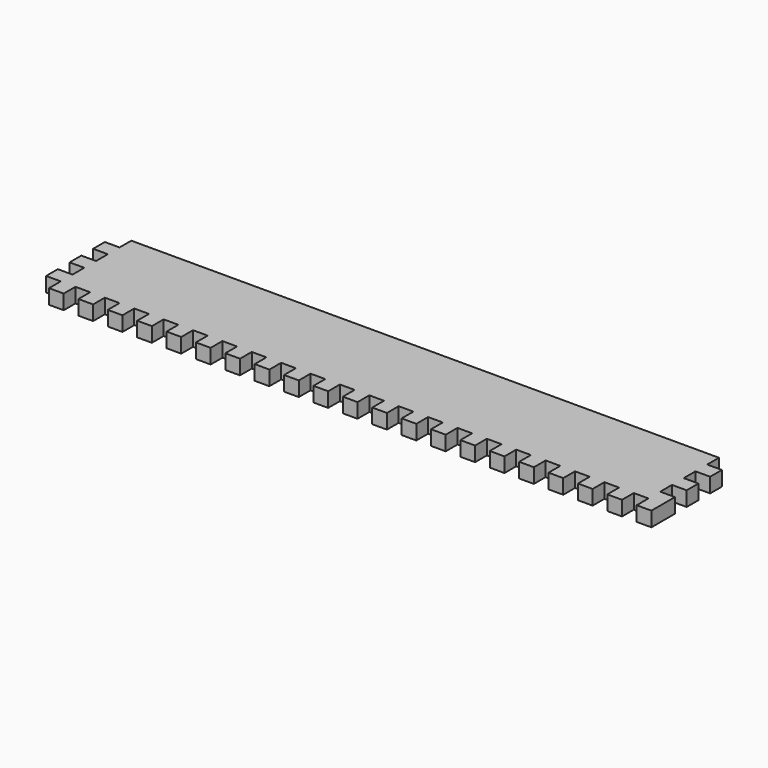
from build123d import *

# Parameters (mm, degrees)
F0_W     = 533.4
F0_H     = 88.9
F1_DEPTH = 12.7
F2_W     = 12.7
F2_H     = 12.7
F3_DEPTH = 25.4
F4_W     = 12.7
F4_H     = 12.7
F5_DEPTH = 25.4
F6_W     = 12.7
F6_H     = 12.7
F7_DEPTH = 25.4


with BuildPart() as f1:
    # F0 (on Top) → F1 (new body)
    with BuildSketch(Plane.XY):
        with Locations((266.7, 44.45)):
            Rectangle(F0_W, F0_H)
    extrude(amount=F1_DEPTH)

    # F2 (on face) → F3 (cut)
    with BuildSketch(Plane.XY.offset(12.7)):
        with Locations((6.35, 6.35)):
            Rectangle(F2_W, F2_H)
        with Locations((6.35, 31.75)):
            Rectangle(F2_W, F2_H)
        with Locations((6.35, 82.55)):
            Rectangle(F2_W, F2_H)
        with Locations((6.35, 57.15)):
            Rectangle(F2_W, F2_H)
    extrude(amount=-F3_DEPTH, mode=Mode.SUBTRACT)

    # F4 (on face) → F5 (cut)
    with BuildSketch(Plane.XY.offset(12.7)):
        with Locations((82.55, 6.35)):
            Rectangle(F4_W, F4_H)
        with Locations((133.35, 6.35)):
            Rectangle(F4_W, F4_H)
        with Locations((158.75, 6.35)):
            Rectangle(F4_W, F4_H)
        with Locations((184.15, 6.35)):
            Rectangle(F4_W, F4_H)
        with Locations((57.15, 6.35)):
            Rectangle(F4_W, F4_H)
        with Locations((31.75, 6.35)):
            Rectangle(F4_W, F4_H)
        with Locations((107.95, 6.35)):
            Rectangle(F4_W, F4_H)
        with Locations((209.55, 6.35)):
            Rectangle(F4_W, F4_H)
        with Locations((234.95, 6.35)):
            Rectangle(F4_W, F4_H)
        with Locations((260.35, 6.35)):
            Rectangle(F4_W, F4_H)
        with Locations((285.75, 6.35)):
            Rectangle(F4_W, F4_H)
        with Locations((311.15, 6.35)):
            Rectangle(F4_W, F4_H)
        with Locations((336.55, 6.35)):
            Rectangle(F4_W, F4_H)
        with Locations((361.95, 6.35)):
            Rectangle(F4_W, F4_H)
        with Locations((387.35, 6.35)):
            Rectangle(F4_W, F4_H)
        with Locations((412.75, 6.35)):
            Rectangle(F4_W, F4_H)
        with Locations((438.15, 6.35)):
            Rectangle(F4_W, F4_H)
        with Locations((463.55, 6.35)):
            Rectangle(F4_W, F4_H)
        with Locations((488.95, 6.35)):
            Rectangle(F4_W, F4_H)
        with Locations((514.35, 6.35)):
            Rectangle(F4_W, F4_H)
    extrude(amount=-F5_DEPTH, mode=Mode.SUBTRACT)

    # F6 (on face) → F7 (cut)
    with BuildSketch(Plane.XY.offset(12.7)):
        with Locations((527.05, 82.55)):
            Rectangle(F6_W, F6_H)
        with Locations((527.05, 57.15)):
            Rectangle(F6_W, F6_H)
        with Locations((527.05, 31.75)):
            Rectangle(F6_W, F6_H)
    extrude(amount=-F7_DEPTH, mode=Mode.SUBTRACT)


solid = f1.part
